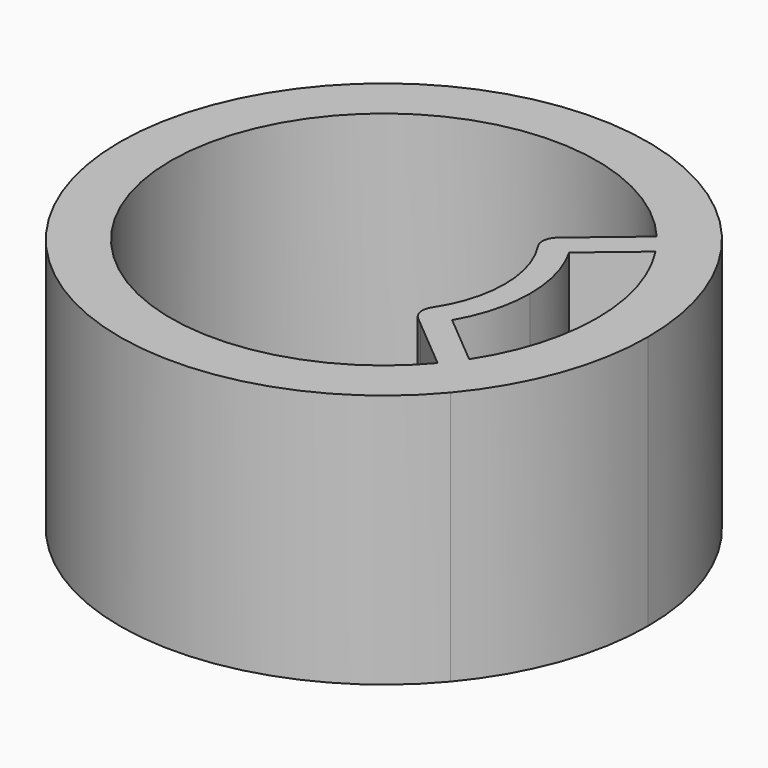
from build123d import *

# Parameters (mm, degrees)
F1_DEPTH = 8
F2_R     = 0.5


with BuildPart() as f1:
    # F0 (on Top) → F1 (new body)
    with BuildSketch(Plane.XY):
        with BuildLine():
            ThreePointArc((5.1324977689, -4.3066769849), (-6.7, 0), (5.1324977689, 4.3066769849))
            Line((5.1324977689, 4.3066769849), (6.3581688779, 5.3351371604))
            ThreePointArc((6.3581688779, 5.3351371604), (-8.3, 0), (6.3581688779, -5.3351371604))
            Line((6.3581688779, -5.3351371604), (5.1324977689, -4.3066769849))
        make_face()
        with BuildLine():
            Line((6.3581688779, 5.3351371604), (5.1324977689, 4.3066769849))
            ThreePointArc((5.1324977689, 4.3066769849), (5.3808860494, 3.9920001658), (5.6100093148, 3.6630309155))
            ThreePointArc((5.6100093148, 3.6630309155), (6.4217233828, 1.9108816801), (6.7, 0))
            ThreePointArc((6.7, 0), (6.4217233828, -1.9108816801), (5.6100093148, -3.6630309155))
            ThreePointArc((5.6100093148, -3.6630309155), (5.3808860494, -3.9920001658), (5.1324977689, -4.3066769849))
            Line((5.1324977689, -4.3066769849), (6.3581688779, -5.3351371604))
            ThreePointArc((6.3581688779, -5.3351371604), (7.7994487525, -2.8387671896), (8.3, 0))
            ThreePointArc((8.3, 0), (7.7994487525, 2.8387671896), (6.3581688779, 5.3351371604))
        make_face()
        with BuildLine():
            Line((5.1324977689, 4.3066769849), (3.5238044383, 2.9568230046))
            ThreePointArc((3.5238044383, 2.9568230046), (3.7684541862, 2.6379448528), (3.9843353171, 2.2989284636))
            Line((3.9843353171, 2.2989284636), (5.6100093148, 3.6630309155))
            ThreePointArc((5.6100093148, 3.6630309155), (5.3808860494, 3.9920001658), (5.1324977689, 4.3066769849))
        make_face()
        with BuildLine():
            ThreePointArc((2.9109688839, 2.4425929168), (3.570831959, 1.2996765446), (3.8, 0))
            ThreePointArc((3.8, 0), (3.570831959, -1.2996765446), (2.9109688839, -2.4425929168))
            Line((2.9109688839, -2.4425929168), (3.5238044383, -2.9568230046))
            ThreePointArc((3.5238044383, -2.9568230046), (3.7684541862, -2.6379448528), (3.9843353171, -2.2989284636))
            ThreePointArc((3.9843353171, -2.2989284636), (4.4434188672, -1.1899700713), (4.6, 0))
            ThreePointArc((4.6, 0), (4.4434188672, 1.1899700713), (3.9843353171, 2.2989284636))
            ThreePointArc((3.9843353171, 2.2989284636), (3.7684541862, 2.6379448528), (3.5238044383, 2.9568230046))
            Line((3.5238044383, 2.9568230046), (2.9109688839, 2.4425929168))
        make_face()
        with BuildLine():
            ThreePointArc((3.9843353171, -2.2989284636), (3.7684541862, -2.6379448528), (3.5238044383, -2.9568230046))
            Line((3.5238044383, -2.9568230046), (5.1324977689, -4.3066769849))
            ThreePointArc((5.1324977689, -4.3066769849), (5.3808860494, -3.9920001658), (5.6100093148, -3.6630309155))
            Line((5.6100093148, -3.6630309155), (3.9843353171, -2.2989284636))
        make_face()
    extrude(amount=F1_DEPTH)

    # F2
    f2_edges = [f1.edges().sort_by_distance(p)[0] for p in [
        (2.910969, 2.442593, 4),
        (2.910969, -2.442593, 4),
    ]]
    fillet(f2_edges, radius=F2_R)


solid = f1.part
